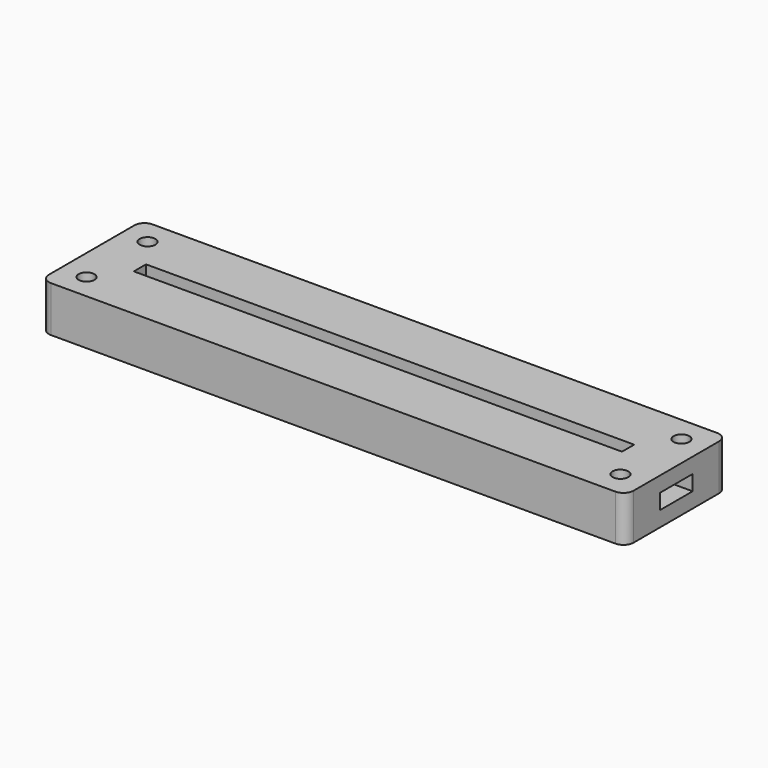
from build123d import *

# Parameters (mm, degrees)
SKETCH_W              = 115
SKETCH_H              = 25
PAD_DEPTH             = 3
PAD001_DEPTH          = 3
SKETCH002_W           = 115
SKETCH002_H           = 25
SKETCH002_W_2         = 96
SKETCH002_H_2         = 3
PAD002_DEPTH          = 3
SKETCH003_R           = 1.55
POCKET_DEPTH          = 245.060315
POLARPATTERN_COUNT    = 2
POLARPATTERN001_COUNT = 2
POLARPATTERN002_COUNT = 2
FILLET_R              = 2
SKETCH004_R           = 12.75
POCKET001_DEPTH       = 3
POCKET002_DEPTH       = 3
FILLET001_R           = 0.4
FILLET002_R           = 2


with BuildPart() as part:
    # Sketch → Pad (new body)
    with BuildSketch(Plane.XY):
        Rectangle(SKETCH_W, SKETCH_H)
    extrude(amount=PAD_DEPTH)

    # Sketch001 (on Face6 of Pad) → Pad001 (join)
    with BuildSketch(Plane.XY.offset(3)):
        Polygon((-57.5, 12.5), (57.5, 12.5), (57.5, 4), (50, 4), (50, 5), (-50, 5), (-50, 4), (-57.5, 4), align=None)
        Polygon((-57.5, -12.5), (57.5, -12.5), (57.5, -4), (50, -4), (50, -5), (-50, -5), (-50, -4), (-57.5, -4), align=None)
    extrude(amount=PAD001_DEPTH)

    # Sketch002 (on Face12 of Pad001) → Pad002 (join)
    with BuildSketch(Plane.XY.offset(6)):
        Rectangle(SKETCH002_W, SKETCH002_H)
        Rectangle(SKETCH002_W_2, SKETCH002_H_2, mode=Mode.SUBTRACT)
    extrude(amount=PAD002_DEPTH)

    # Sketch003 (on Face26 of Pad002) → Pocket (cut, through all)
    with BuildSketch(Plane.XY.offset(9)):
        with Locations((-52.5, 7.5)):
            Circle(SKETCH003_R)
    pocket = extrude(amount=-POCKET_DEPTH, mode=Mode.SUBTRACT)

    # PolarPattern: Pocket ×2 about axis
    polarpattern_axis = Axis((0, 0, 0), (0, 1, 0))
    for i in range(1, POLARPATTERN_COUNT):
        add(pocket.rotate(polarpattern_axis, i * 360 / POLARPATTERN_COUNT), mode=Mode.SUBTRACT)

    # PolarPattern001: Pocket ×2 about axis
    polarpattern001_axis = Axis((0, 0, 0), (1, 0, 0))
    for i in range(1, POLARPATTERN001_COUNT):
        add(pocket.rotate(polarpattern001_axis, i * 360 / POLARPATTERN001_COUNT), mode=Mode.SUBTRACT)

    # PolarPattern002: Pocket ×2 about axis
    polarpattern002_axis = Axis((0, 0, 9), (0, 0, 1))
    for i in range(1, POLARPATTERN002_COUNT):
        add(pocket.rotate(polarpattern002_axis, i * 360 / POLARPATTERN002_COUNT), mode=Mode.SUBTRACT)

    # Fillet
    fillet_edges = [part.edges().sort_by_distance(p)[0] for p in [
        (57.5, 12.5, 7.5),
        (57.5, 12.5, 4.5),
        (57.5, 12.5, 1.5),
        (57.5, -12.5, 7.5),
        (-57.5, 12.5, 7.5),
        (-57.5, -12.5, 7.5),
    ]]
    fillet(fillet_edges, radius=FILLET_R)

    # Sketch004 (on Face2 of Fillet) → Pocket001 (cut)
    with BuildSketch(Plane(origin=(0, 0, 0), x_dir=(1, 0, 0), z_dir=(0, 0, -1))):
        with Locations((0, -4.31247)):
            Circle(SKETCH004_R)
    extrude(amount=-POCKET001_DEPTH, mode=Mode.SUBTRACT)

    # Sketch005 (on Face2 of Pocket001) → Pocket002 (cut)
    with BuildSketch(Plane(origin=(0, 0, 0), x_dir=(1, 0, 0), z_dir=(0, 0, -1))):
        Polygon((0.086598, 10.584693), (-50.025204, 10.584693), (-50.025204, 6.371434), (-55.624748, 3.161258), (-55.624748, -3.408425), (-50.493088, -3.376352), (-45.134857, 4.115264), (-43.691578, 5.783052), (0.086598, 5.783052), align=None)
    extrude(amount=-POCKET002_DEPTH, mode=Mode.SUBTRACT)

    # Fillet001
    fillet001_edges = [part.edges().sort_by_distance(p)[0] for p in [
        (-7.787357, -5.783052, 1.5),
    ]]
    fillet(fillet001_edges, radius=FILLET001_R)

    # Fillet002
    fillet002_edges = [part.edges().sort_by_distance(p)[0] for p in [
        (0.086598, -8.437236, 1.5),
    ]]
    fillet(fillet002_edges, radius=FILLET002_R)


solid = part.part
